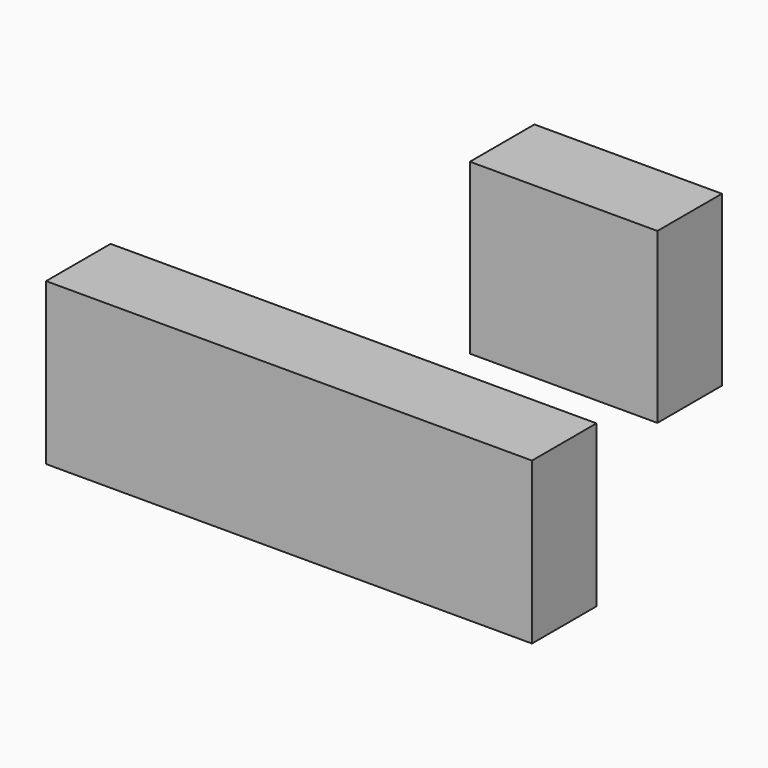
from build123d import *

# Parameters (mm, degrees)
F0_W     = 153.0516147614
F0_H     = 50.7399439812
F2_DEPTH = 25.4
F1_W     = 153.0516147614
F1_H     = 50.7399439812


with BuildPart() as f2:
    # F0 (on Front) → F2 (new body)
    with BuildSketch(Plane.XZ):
        Rectangle(F0_W, F0_H)
    extrude(amount=F2_DEPTH)


with BuildPart() as f2b:
    # F0 (on Front) → F2, piece 2 (new body)
    with BuildSketch(Plane.XZ):
        with BuildLine():
            Line((76.5258073807, 63.2169768214), (76.5258073807, 48.6604385078))
            Line((76.5258073807, 48.6604385078), (116.0364151001, 48.6604385078))
            Line((116.0364151001, 48.6604385078), (99.4003713131, 64.4646808505))
            ThreePointArc((99.4003713131, 64.4646808505), (87.372338283, 74.6712603045), (76.5258073807, 63.2169768214))
        make_face()
        with BuildLine():
            Line((56.9784641266, 48.6604385078), (76.5258073807, 48.6604385078))
            Line((76.5258073807, 48.6604385078), (76.5258073807, 63.2169768214))
            ThreePointArc((76.5258073807, 63.2169768214), (87.372338283, 74.6712603045), (99.4003713131, 64.4646808505))
            Line((99.4003713131, 64.4646808505), (116.0364151001, 48.6604385078))
            Line((116.0364151001, 48.6604385078), (116.0364151001, 101.8957830966))
            Line((116.0364151001, 101.8957830966), (56.9784641266, 101.8957830966))
            Line((56.9784641266, 101.8957830966), (56.9784641266, 48.6604385078))
        make_face()
    extrude(amount=F2_DEPTH)


with BuildPart() as f2c:
    # F1 (on face) → F2, piece 3 (new body)
    with BuildSketch(Plane.XZ):
        Rectangle(F1_W, F1_H)
    extrude(amount=F2_DEPTH)


solid = Compound([f2.part, f2b.part, f2c.part])
